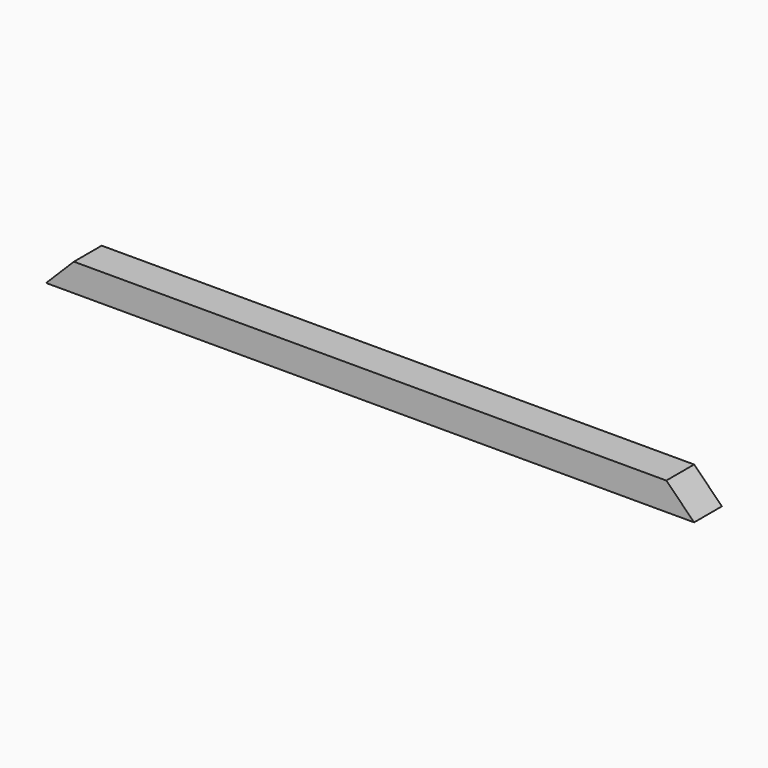
from build123d import *

# Parameters (mm, degrees)
F0_W     = 95.25
F0_H     = 76.2
F1_DEPTH = 1776.4125
F3_DEPTH = 95.251


with BuildPart() as f1:
    # F0 (on Right) → F1 (new body)
    with BuildSketch(Plane.YZ):
        with Locations((-47.625, -38.1)):
            Rectangle(F0_W, F0_H)
    extrude(amount=F1_DEPTH)

    # F2 (on face) → F3 (cut, through all)
    with BuildSketch(Plane.XZ.offset(95.25)):
        Polygon((0, 0), (0, -76.2), (76.2, 0), align=None)
        Polygon((1776.4125, -76.2), (1776.4125, 0), (1700.2125, 0), align=None)
    extrude(amount=-F3_DEPTH, mode=Mode.SUBTRACT)


solid = f1.part
